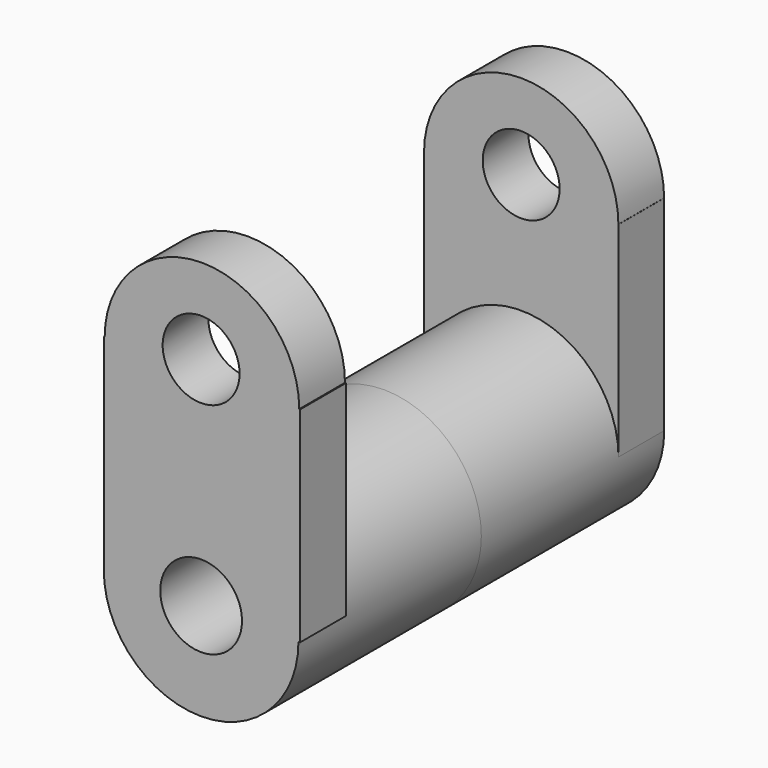
from build123d import *

# Parameters (mm, degrees)
F0_R      = 21.6324082339
F1_DEPTH  = 50.8
F2_R      = 21.6324082339
F3_DEPTH  = 50.8
F4_W      = 43.638148787
F4_H      = 45.5662310123
F5_DEPTH  = 12.7
F6_R      = 21.6201983054
F7_DEPTH  = 12.7
F8_W      = 43.2470137948
F8_H      = 45.5075465143
F9_DEPTH  = 12.7
F10_R     = 21.600140632
F11_DEPTH = 12.7
F12_R     = 9.0838177262
F13_DEPTH = 101.601
F14_R     = 8.547587073
F15_DEPTH = 101.601


with BuildPart() as f1:
    # F0 (on Front) → F1 (new body)
    with BuildSketch(Plane.XZ):
        Circle(F0_R)
    extrude(amount=F1_DEPTH)

    # F2 (on face) → F3 (join)
    with BuildSketch(Plane(origin=(0, 0, 0), x_dir=(-1, 0, 0), z_dir=(0, 1, 0))):
        Circle(F2_R)
    extrude(amount=F3_DEPTH)

    # F4 (on face) → F5 (join)
    with BuildSketch(Plane.XZ.offset(50.8)):
        with Locations((0.1866661596, 22.7831155062)):
            Rectangle(F4_W, F4_H)
    extrude(amount=-F5_DEPTH)

    # F6 (on face) → F7 (join)
    with BuildSketch(Plane.XZ.offset(50.8)):
        with Locations((0.1866661596, 45.5662310123)):
            Circle(F6_R)
    extrude(amount=-F7_DEPTH)

    # F8 (on face) → F9 (join)
    with BuildSketch(Plane(origin=(0, 50.8, 0), x_dir=(-1, 0, 0), z_dir=(0, 1, 0))):
        with Locations((-0.0089013365, 22.7537732571)):
            Rectangle(F8_W, F8_H)
    extrude(amount=-F9_DEPTH)

    # F10 (on face) → F11 (join)
    with BuildSketch(Plane(origin=(0, 50.8, 0), x_dir=(-1, 0, 0), z_dir=(0, 1, 0))):
        with Locations((-0.0089013365, 45.5075465143)):
            Circle(F10_R)
    extrude(amount=-F11_DEPTH)

    # F12 (on face) → F13 (cut, through all)
    with BuildSketch(Plane.XZ.offset(50.8)):
        Circle(F12_R)
    extrude(amount=-F13_DEPTH, mode=Mode.SUBTRACT)

    # F14 (on face) → F15 (cut, through all)
    with BuildSketch(Plane.XZ.offset(50.8)):
        with Locations((0, 48.1973513961)):
            Circle(F14_R)
    extrude(amount=-F15_DEPTH, mode=Mode.SUBTRACT)


solid = f1.part
